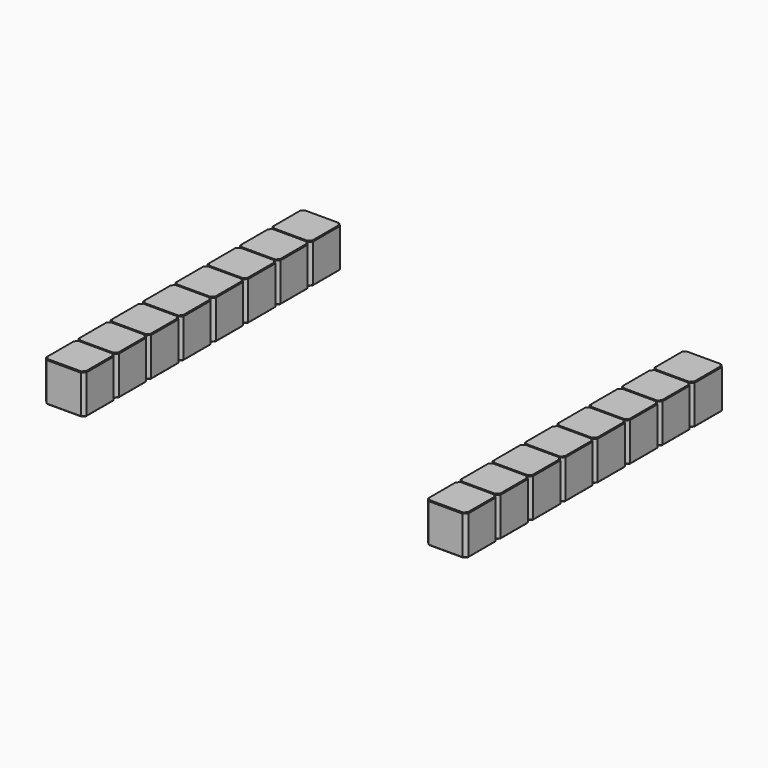
from build123d import *

# Parameters (mm, degrees)
SKETCH208_W     = 2.54
SKETCH208_H     = 2.54
PAD063_DEPTH    = 2.5
CHAMFER014_SIZE = 0.2
CHAMFER013_SIZE = 0.05
ARRAY_X_COUNT   = 2
ARRAY_X_PITCH   = 24
ARRAY_Y_COUNT   = 8
ARRAY_Y_PITCH   = 2.54


with BuildPart() as array:
    # Sketch208 → Pad063 (new body)
    with BuildSketch(Plane.XY):
        Rectangle(SKETCH208_W, SKETCH208_H)
    extrude(amount=PAD063_DEPTH)

    # Chamfer014
    chamfer014_edges = [array.edges().sort_by_distance(p)[0] for p in [
        (1.27, -1.27, 1.25),
        (-1.27, -1.27, 1.25),
        (1.27, 1.27, 1.25),
        (-1.27, 1.27, 1.25),
    ]]
    chamfer(chamfer014_edges, length=CHAMFER014_SIZE)

    # Chamfer013
    chamfer013_edges = [array.edges().sort_by_distance(p)[0] for p in [
        (0, -1.27, 2.5),
        (-1.17, -1.17, 2.5),
        (1.17, -1.17, 2.5),
        (-1.27, 0, 2.5),
        (1.27, 0, 2.5),
        (-1.17, 1.17, 2.5),
        (1.17, 1.17, 2.5),
        (0, 1.27, 2.5),
        (0, -1.27, 0),
        (-1.17, -1.17, 0),
        (1.17, -1.17, 0),
        (-1.27, 0, 0),
        (1.27, 0, 0),
        (-1.17, 1.17, 0),
        (1.17, 1.17, 0),
        (0, 1.27, 0),
    ]]
    chamfer(chamfer013_edges, length=CHAMFER013_SIZE)


with BuildPart() as array_copy1:
    # Array X: instance of Array
    add(array.part.moved(Location(Vector(-1, 0, 0) * (1 * ARRAY_X_PITCH))))


with BuildPart() as array_copy2:
    # Array Y: instance of Array
    add(array.part.moved(Location(Vector(0, 1, 0) * (1 * ARRAY_Y_PITCH))))


with BuildPart() as array_copy3:
    # Array Y: instance of Array
    add(array.part.moved(Location(Vector(0, 1, 0) * (2 * ARRAY_Y_PITCH))))


with BuildPart() as array_copy4:
    # Array Y: instance of Array
    add(array.part.moved(Location(Vector(0, 1, 0) * (3 * ARRAY_Y_PITCH))))


with BuildPart() as array_copy5:
    # Array Y: instance of Array
    add(array.part.moved(Location(Vector(0, 1, 0) * (4 * ARRAY_Y_PITCH))))


with BuildPart() as array_copy6:
    # Array Y: instance of Array
    add(array.part.moved(Location(Vector(0, 1, 0) * (5 * ARRAY_Y_PITCH))))


with BuildPart() as array_copy7:
    # Array Y: instance of Array
    add(array.part.moved(Location(Vector(0, 1, 0) * (6 * ARRAY_Y_PITCH))))


with BuildPart() as array_copy8:
    # Array Y: instance of Array
    add(array.part.moved(Location(Vector(0, 1, 0) * (7 * ARRAY_Y_PITCH))))


with BuildPart() as array_copy9:
    # Array Y: instance of Array copy1
    add(array_copy1.part.moved(Location(Vector(0, 1, 0) * (1 * ARRAY_Y_PITCH))))


with BuildPart() as array_copy10:
    # Array Y: instance of Array copy1
    add(array_copy1.part.moved(Location(Vector(0, 1, 0) * (2 * ARRAY_Y_PITCH))))


with BuildPart() as array_copy11:
    # Array Y: instance of Array copy1
    add(array_copy1.part.moved(Location(Vector(0, 1, 0) * (3 * ARRAY_Y_PITCH))))


with BuildPart() as array_copy12:
    # Array Y: instance of Array copy1
    add(array_copy1.part.moved(Location(Vector(0, 1, 0) * (4 * ARRAY_Y_PITCH))))


with BuildPart() as array_copy13:
    # Array Y: instance of Array copy1
    add(array_copy1.part.moved(Location(Vector(0, 1, 0) * (5 * ARRAY_Y_PITCH))))


with BuildPart() as array_copy14:
    # Array Y: instance of Array copy1
    add(array_copy1.part.moved(Location(Vector(0, 1, 0) * (6 * ARRAY_Y_PITCH))))


with BuildPart() as array_copy15:
    # Array Y: instance of Array copy1
    add(array_copy1.part.moved(Location(Vector(0, 1, 0) * (7 * ARRAY_Y_PITCH))))


solid = Compound([array.part, array_copy1.part, array_copy2.part, array_copy3.part, array_copy4.part, array_copy5.part, array_copy6.part, array_copy7.part, array_copy8.part, array_copy9.part, array_copy10.part, array_copy11.part, array_copy12.part, array_copy13.part, array_copy14.part, array_copy15.part])
